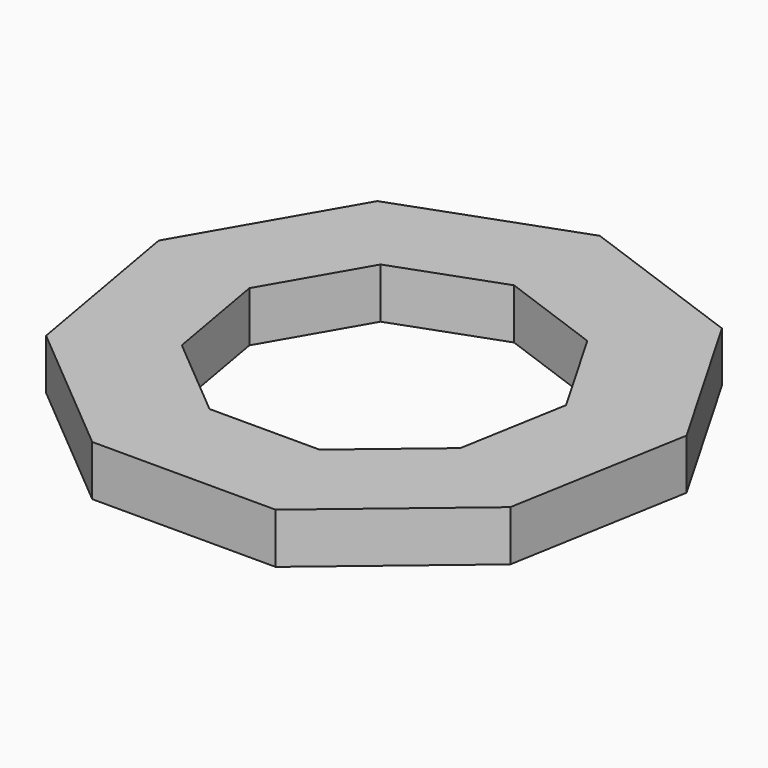
from build123d import *

# Parameters (mm, degrees)
F1_DEPTH = 4
F3_DEPTH = 25


with BuildPart() as f1:
    # F0 (on Top) → F1 (new body)
    with BuildSketch(Plane.XY):
        Polygon((-7.279405, -20), (7.279405, -20), (18.4321, -10.641778), (20.96021, 3.695851), (13.680806, 16.304149), (0, 21.283555), (-13.680806, 16.304149), (-20.96021, 3.695851), (-18.4321, -10.641778), align=None)
    extrude(amount=F1_DEPTH)

    # F2 (on face) → F3 (cut)
    with BuildSketch(Plane.XY.offset(4)):
        Polygon((-11.05926, -6.385067), (-4.367643, -12), (4.367643, -12), (11.05926, -6.385067), (12.576126, 2.21751), (8.208483, 9.78249), (0, 12.770133), (-8.208483, 9.78249), (-12.576126, 2.21751), align=None)
    extrude(amount=-F3_DEPTH, mode=Mode.SUBTRACT)


solid = f1.part
